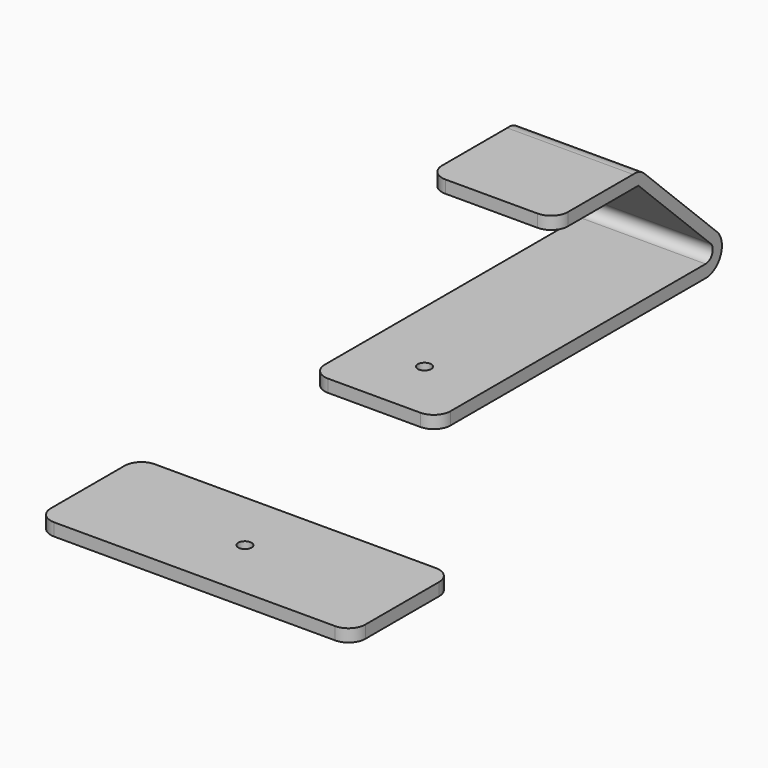
from build123d import *

# Parameters (mm, degrees)
F1_R     = 3.175
F3_DEPTH = 6
F5_DEPTH = 59.999999
F6_R     = 3.175
F8_DEPTH = 25
F10_R    = 8
F11_R    = 8


with BuildPart() as f3:
    # F1 (on face) → F3 (new body)
    with BuildSketch(Plane.XY):
        with BuildLine():
            ThreePointArc((149.926721, 52), (147.583575, 57.656854), (141.926721, 60))
            Line((141.926721, 60), (7.926721, 60))
            ThreePointArc((7.926721, 60), (2.269867, 57.656854), (-0.073279, 52))
            Line((-0.073279, 52), (-0.073279, 8))
            ThreePointArc((-0.073279, 8), (2.269867, 2.343146), (7.926721, 0))
            Line((7.926721, 0), (141.926721, 0))
            ThreePointArc((141.926721, 0), (147.583575, 2.343146), (149.926721, 8))
            Line((149.926721, 8), (149.926721, 52))
        make_face()
        with Locations((74.926721, 30)):
            Circle(F1_R, mode=Mode.SUBTRACT)
    extrude(amount=F3_DEPTH)


with BuildPart() as f5:
    # F4 (on Right) → F5 (new body)
    with BuildSketch(Plane.YZ):
        with BuildLine():
            Line((163.204402, 0), (163.204402, -6))
            Line((163.204402, -6), (323.204402, -6))
            ThreePointArc((323.204402, -6), (332.317723, 0.29328), (329.660543, 11.044902))
            Line((329.660543, 11.044902), (286.623358, 52.851608))
            ThreePointArc((286.623358, 52.851608), (283.561768, 54.740798), (279.988736, 55.160103))
            Line((279.988736, 55.160103), (277.550519, 55.160103))
            Line((277.550519, 55.160103), (233.150813, 55.160103))
            Line((233.150813, 55.160103), (233.150813, 49.160103))
            Line((233.150813, 49.160103), (283.150813, 49.160103))
            Line((283.150813, 49.160103), (326.187998, 7.353397))
            ThreePointArc((326.187998, 7.353397), (327.17222, 2.672069), (323.204402, 0))
            Line((323.204402, 0), (163.204402, 0))
        make_face()
    extrude(amount=F5_DEPTH)

    # F6 (on face) → F8 (cut)
    with BuildSketch(Plane.XY):
        with Locations((29.999999, 193.204402)):
            Circle(F6_R)
    extrude(amount=-F8_DEPTH, mode=Mode.SUBTRACT)

    # F10
    f10_edges = [f5.edges().sort_by_distance(p)[0] for p in [
        (59.999999, 163.204402, -3),
        (0, 163.204402, -3),
    ]]
    fillet(f10_edges, radius=F10_R)

    # F11
    f11_edges = [f5.edges().sort_by_distance(p)[0] for p in [
        (59.999999, 233.150813, 52.160103),
        (0, 233.150813, 52.160103),
    ]]
    fillet(f11_edges, radius=F11_R)


solid = Compound([f3.part, f5.part])
